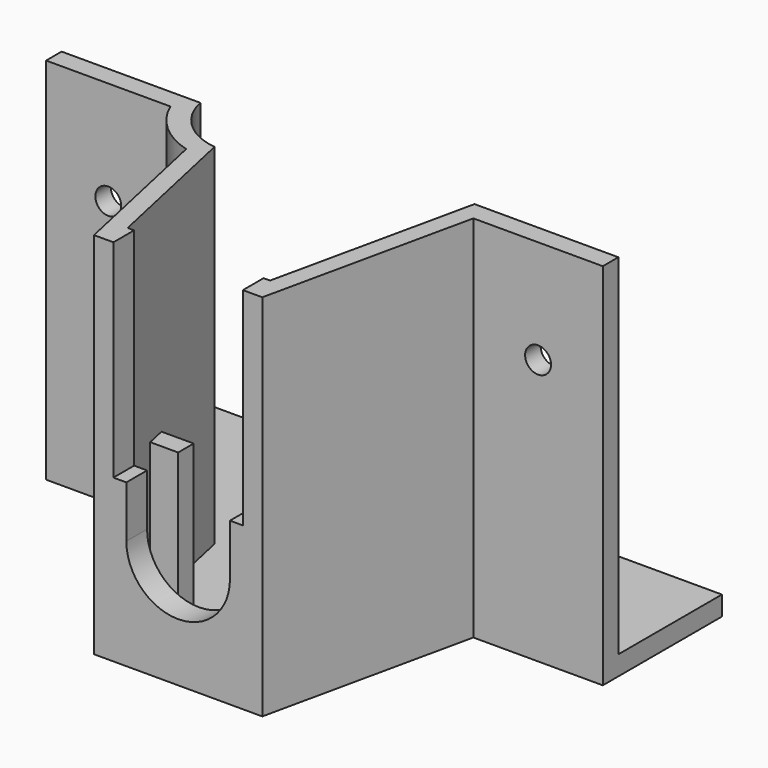
from build123d import *

# Parameters (mm, degrees)
PAD_DEPTH       = 1.5
PAD001_DEPTH    = 27
PAD002_DEPTH    = 11
SKETCH003_W     = 10
SKETCH003_H     = 2
POCKET_DEPTH    = 16
SKETCH004_W     = 8
SKETCH004_H     = 2
POCKET001_DEPTH = 4
SKETCH005_R     = 4
POCKET002_DEPTH = 2
SKETCH006_R     = 5
POCKET003_DEPTH = 27
PAD003_DEPTH    = 27
PAD004_DEPTH    = 1.5
SKETCH009_R     = 1
POCKET004_DEPTH = 5
SKETCH010_R     = 1
POCKET005_DEPTH = 5


with BuildPart() as obj1:
    # Sketch → Pad (new body)
    with BuildSketch(Plane.XY):
        Polygon((-20, 11.5), (23, 11.5), (23, 0), (10, 0), (6.5, -16), (-6.5, -16), (-10, 0), (-20, 0), align=None)
    extrude(amount=PAD_DEPTH)

    # Sketch001 → Pad001 (new body)
    with BuildSketch(Plane.XY.offset(1.5)):
        Polygon((-20, 0), (-20, 1.5), (-8.890625, 1.5), (-5.5, -14), (5.5, -14), (8.890625, 1.5), (23, 1.5), (23, 0), (10, 0), (6.5, -16), (-6.5, -16), (-10, 0), align=None)
    extrude(amount=PAD001_DEPTH)

    # Sketch002 → Pad002 (new body)
    with BuildSketch(Plane.XY.offset(1.5)):
        Polygon((-6.15625, -11), (-4, -11), (-4, -9.5), (-6.484375, -9.5), align=None)
        Polygon((6.484375, -9.5), (4, -9.5), (4, -11), (6.15625, -11), align=None)
    extrude(amount=PAD002_DEPTH)

    # Sketch003 → Pocket (cut)
    with BuildSketch(Plane.XY.offset(28.5)):
        with Locations((0, -15)):
            Rectangle(SKETCH003_W, SKETCH003_H)
    extrude(amount=-POCKET_DEPTH, mode=Mode.SUBTRACT)

    # Sketch004 → Pocket001 (cut)
    with BuildSketch(Plane.XY.offset(12.5)):
        with Locations((0, -15)):
            Rectangle(SKETCH004_W, SKETCH004_H)
    extrude(amount=-POCKET001_DEPTH, mode=Mode.SUBTRACT)

    # Sketch005 → Pocket002 (cut)
    with BuildSketch(Plane.XZ.offset(16)):
        with Locations((0, 8.5)):
            Circle(SKETCH005_R)
    extrude(amount=-POCKET002_DEPTH, mode=Mode.SUBTRACT)

    # Sketch006 → Pocket003 (cut)
    with BuildSketch(Plane.XY.offset(28.5)):
        with Locations((7.390625, 2.5)):
            Circle(SKETCH006_R)
    extrude(amount=-POCKET003_DEPTH, mode=Mode.SUBTRACT)

    # Sketch007 → Pad003 (new body)
    with BuildSketch(Plane.XY.offset(1.5)):
        with BuildLine():
            ThreePointArc((9.179934789, -3.7488695361), (11.7128746974, -2.3547046824), (13.390625, 0))
            Line((11.7207520189, 0), (13.390625, 0))
            ThreePointArc((9.5616048305, -2.0040922033), (10.792123781, -1.1646699774), (11.7207520189, 0))
            Line((9.5616048305, -2.0040922033), (9.179934789, -3.7488695361))
        make_face()
    extrude(amount=PAD003_DEPTH)

    # Sketch008 → Pad004 (new body)
    with BuildSketch(Plane(origin=(0, 0, 1.5), x_dir=(1, 0, 0), z_dir=(0, 0, -1))):
        with BuildLine():
            ThreePointArc((13.390625, 0), (11.7128746974, 2.3547046824), (9.179934789, 3.7488695361))
            Line((9.179934789, 3.7488695361), (10, 0))
            Line((10, 0), (13.390625, 0))
        make_face()
    extrude(amount=PAD004_DEPTH)

    # Sketch009 → Pocket004 (cut)
    with BuildSketch(Plane.XZ):
        with Locations((-15, 20.5)):
            Circle(SKETCH009_R)
        with Locations((18.1953125, 20.5)):
            Circle(SKETCH009_R)
    extrude(amount=-POCKET004_DEPTH, mode=Mode.SUBTRACT)

    # Sketch010 → Pocket005 (cut)
    with BuildSketch(Plane(origin=(0, 0, 0), x_dir=(1, 0, 0), z_dir=(0, 0, -1))):
        with Locations((-15, -5.75)):
            Circle(SKETCH010_R)
        with Locations((18.1953125, -5.75)):
            Circle(SKETCH010_R)
    extrude(amount=-POCKET005_DEPTH, mode=Mode.SUBTRACT)


with BuildPart() as obj2:
    # Part__Mirroring: instance of obj1
    add(obj1.part.mirror(Plane(origin=(0, 0, 0), x_dir=(0, -1, 0), z_dir=(1, 0, 0))))


solid = obj2.part
